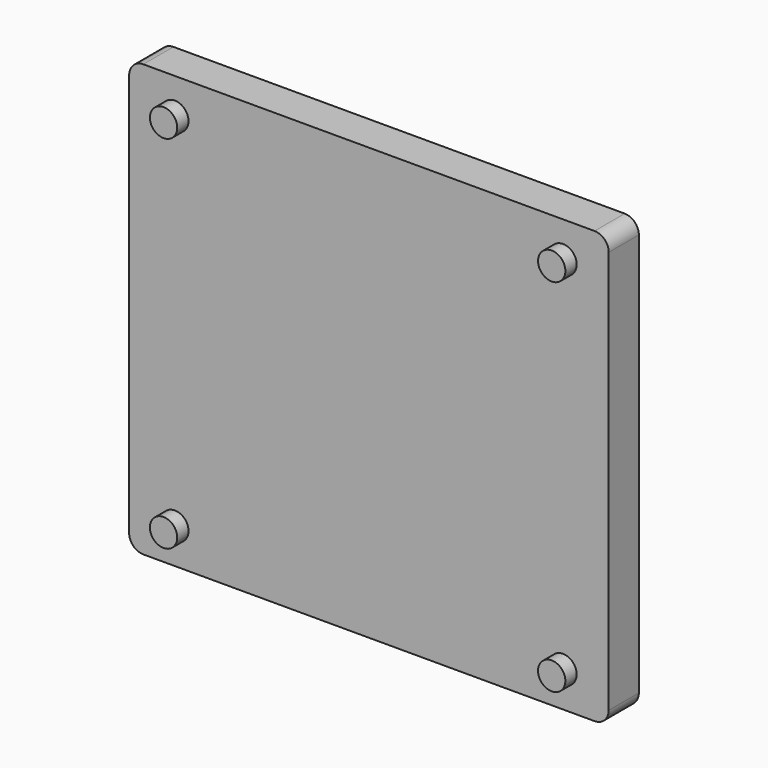
from build123d import *

# Parameters (mm, degrees)
F0_R     = 1.45
F1_DEPTH = 4
F2_DEPTH = 5.5


with BuildPart() as f1:
    # F0 (on Front) → F1 (new body)
    with BuildSketch(Plane.XZ):
        with BuildLine():
            Line((23.95, 22.9), (-23.95, 22.9))
            ThreePointArc((-23.95, 22.9), (-25.01066, 22.46066), (-25.45, 21.4))
            Line((-25.45, 21.4), (-25.45, -21.4))
            ThreePointArc((-25.45, -21.4), (-25.01066, -22.46066), (-23.95, -22.9))
            Line((-23.95, -22.9), (23.95, -22.9))
            ThreePointArc((23.95, -22.9), (25.01066, -22.46066), (25.45, -21.4))
            Line((25.45, -21.4), (25.45, 21.4))
            ThreePointArc((25.45, 21.4), (25.01066, 22.46066), (23.95, 22.9))
        make_face()
        with Locations((-20.6, -19.15)):
            Circle(F0_R, mode=Mode.SUBTRACT)
        with Locations((20.6, -19.15)):
            Circle(F0_R, mode=Mode.SUBTRACT)
        with Locations((-20.6, 19.15)):
            Circle(F0_R, mode=Mode.SUBTRACT)
        with Locations((20.6, 19.15)):
            Circle(F0_R, mode=Mode.SUBTRACT)
        with Locations((20.6, 19.15)):
            Circle(F0_R)
        with Locations((-20.6, 19.15)):
            Circle(F0_R)
        with Locations((-20.6, -19.15)):
            Circle(F0_R)
        with Locations((20.6, -19.15)):
            Circle(F0_R)
    extrude(amount=F1_DEPTH)

    # F0 (on Front) → F2 (join)
    with BuildSketch(Plane.XZ):
        with Locations((-20.6, -19.15)):
            Circle(F0_R)
        with Locations((-20.6, 19.15)):
            Circle(F0_R)
        with Locations((20.6, 19.15)):
            Circle(F0_R)
        with Locations((20.6, -19.15)):
            Circle(F0_R)
    extrude(amount=F2_DEPTH)


solid = f1.part
